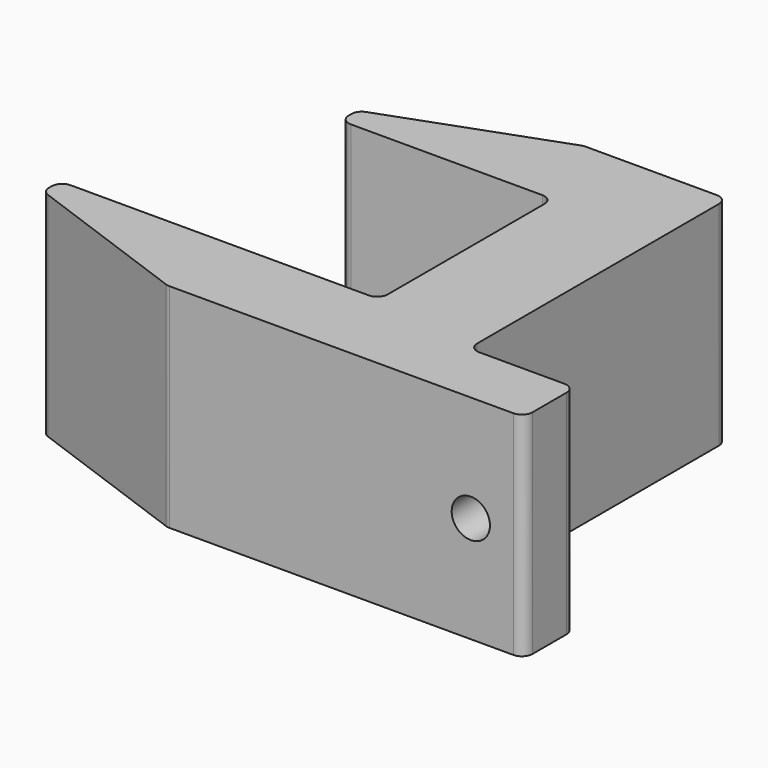
from build123d import *

# Parameters (mm, degrees)
F1_DEPTH = 25.4
F2_R     = 1.27
F3_R     = 2.286
F4_DEPTH = 7.62


with BuildPart() as f1:
    # F0 (on Top) → F1 (new body)
    with BuildSketch(Plane.XY):
        with BuildLine():
            Line((-44.880287, 2.54), (-3.81, 2.54))
            ThreePointArc((-3.81, 2.54), (-2.911974, 2.911974), (-2.54, 3.81))
            Line((-2.54, 3.81), (-2.54, 10.16))
            Line((-2.54, 10.16), (-15.24, 10.16))
            Line((-15.24, 10.16), (-15.24, 48.768))
            Line((-15.24, 48.768), (-32.180287, 48.768))
            ThreePointArc((-32.180287, 48.768), (-32.40082, 48.748706), (-32.614652, 48.69141))
            Line((-32.614652, 48.69141), (-52.504366, 41.452146))
            ThreePointArc((-52.504366, 41.452146), (-53.110323, 40.987179), (-53.34, 40.258736))
            Line((-53.34, 40.258736), (-53.34, 39.878))
            ThreePointArc((-53.34, 39.878), (-52.968026, 38.979974), (-52.07, 38.608))
            Line((-52.07, 38.608), (-29.21, 38.608))
            ThreePointArc((-29.21, 38.608), (-28.311974, 38.236026), (-27.94, 37.338))
            Line((-27.94, 37.338), (-27.94, 13.97))
            ThreePointArc((-27.94, 13.97), (-28.311974, 13.071974), (-29.21, 12.7))
            Line((-29.21, 12.7), (-64.77, 12.7))
            ThreePointArc((-64.77, 12.7), (-65.668026, 12.328026), (-66.04, 11.43))
            Line((-66.04, 11.43), (-66.04, 11.049264))
            ThreePointArc((-66.04, 11.049264), (-65.810323, 10.320821), (-65.204366, 9.855854))
            Line((-65.204366, 9.855854), (-45.314652, 2.61659))
            ThreePointArc((-45.314652, 2.61659), (-45.10082, 2.559294), (-44.880287, 2.54))
        make_face()
    extrude(amount=F1_DEPTH)

    # F2
    f2_edges = [f1.edges().sort_by_distance(p)[0] for p in [
        (-15.24, 10.16, 12.7),
        (-2.54, 10.16, 12.7),
        (-15.24, 48.768, 12.7),
    ]]
    fillet(f2_edges, radius=F2_R)

    # F3 (on face) → F4 (cut, through all)
    with BuildSketch(Plane(origin=(0, 10.16, 0), x_dir=(-1, 0, 0), z_dir=(0, 1, 0))):
        with Locations((8.89, 12.7)):
            Circle(F3_R)
    extrude(amount=-F4_DEPTH, mode=Mode.SUBTRACT)


solid = f1.part
